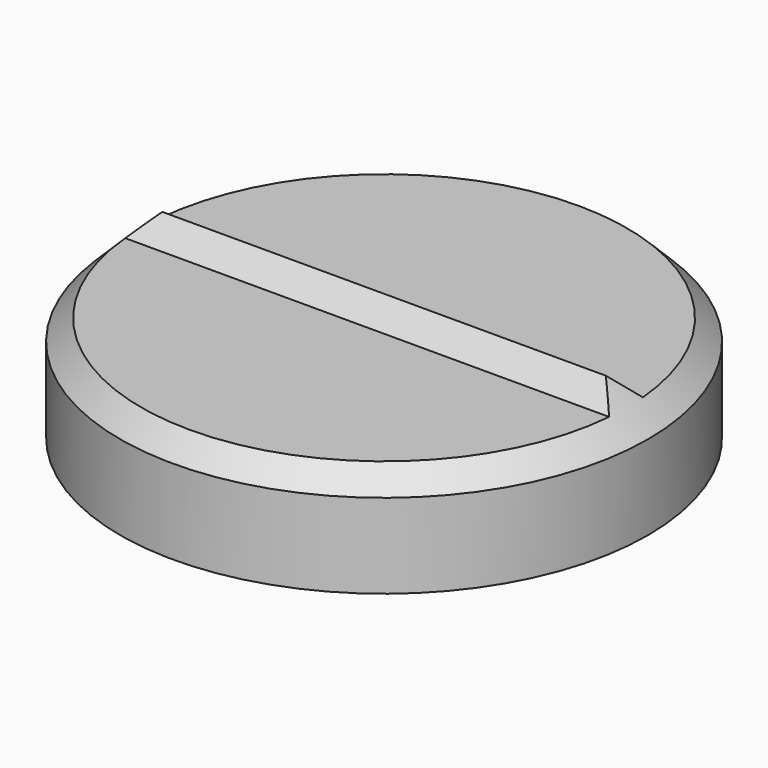
from build123d import *

# Parameters (mm, degrees)
F3_DEPTH = 6.35
F0_R     = 6.35
F4_DEPTH = 2.54
F5_R     = 12.7
F5_R_2   = 6.35
F6_DEPTH = 6.35


with BuildPart() as f3:
    # F2 (on Right) → F3 (new body, symmetric)
    with BuildSketch(Plane.YZ):
        Polygon((0, -0.508), (0.508, 0), (0, 0.508), (-0.508, 0), align=None)
    extrude(amount=F3_DEPTH, both=True)

    # F0 (on Top) → F4 (join)
    with BuildSketch(Plane.XY):
        Circle(F0_R)
    extrude(amount=-F4_DEPTH)

    # F5 (on face) → F6 (cut, symmetric)
    with BuildSketch(Plane.XY):
        Circle(F5_R)
        Circle(F5_R_2, mode=Mode.SUBTRACT)
    extrude(amount=F6_DEPTH, both=True, mode=Mode.SUBTRACT)

    # F7 (on Front) → F8 (revolve, cut)
    with BuildSketch(Plane.XZ):
        Polygon((6.35, 0.508), (5.334, 0.508), (6.35, -0.508), align=None)
    revolve(axis=Axis((0, 0, -0.254), (0, 0, -1)), mode=Mode.SUBTRACT)


solid = f3.part
